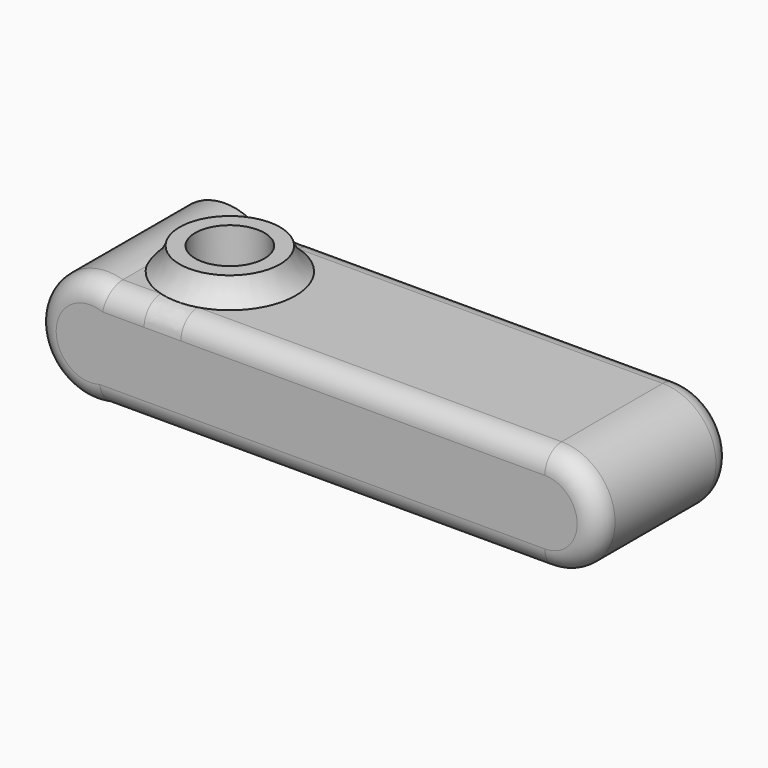
from build123d import *

# Parameters (mm, degrees)
F1_DEPTH  = 12.7
F5_R      = 3.302
F4_FACE_R = 5.2264022723
F6_DEPTH  = 6.35
F7_DEPTH  = 6.35
F8_DEPTH  = 6.35
F9_R      = 2.8667617308
F10_DEPTH = 6.35
F11_R     = 3.175


with BuildPart() as f1:
    # F0 (on Front) → F1 (new body, symmetric)
    with BuildSketch(Plane.XZ):
        with BuildLine():
            Line((27.0537398756, 6.9073382765), (-39.1415841877, 6.9073382765))
            ThreePointArc((-39.1415841877, 6.9073382765), (-49.8380616626, -0.7794862001), (-39.7171936929, -9.2097846791))
            Line((-39.7171936929, -9.2097846791), (27.0537398756, -9.2097846791))
            ThreePointArc((27.0537398756, -9.2097846791), (35.1123013534, -1.1512232013), (27.0537398756, 6.9073382765))
        make_face()
    extrude(amount=F1_DEPTH, both=True)

    # F3 (on Front) → F4 (revolve)
    with BuildSketch(Plane.XZ):
        with BuildLine():
            ThreePointArc((-19.0515599295, 6.0564640567), (-21.5885566512, 7.6841524566), (-23.0529304126, 10.3187931113))
            Line((-23.0529304126, 10.3187931113), (-25.4015599295, 10.3187931113))
            Line((-25.4015599295, 10.3187931113), (-25.4015599295, 6.0564640567))
            Line((-25.4015599295, 6.0564640567), (-19.0515599295, 6.0564640567))
        make_face()
    revolve(axis=Axis((-30.6279622018, 0, 0.5539879203), (0, 0, -1)))

    # F5 (on Top) + F4_face (on face) → F6 (cut)
    with BuildSketch(Plane.XY):
        with Locations((-31.2027800828, 0)):
            Circle(F5_R)
    with BuildSketch(Plane(origin=(-30.6279622018, 0, 6.9073382765), x_dir=(1, 0, 0), z_dir=(0, 0, 1))):
        Circle(F4_FACE_R)
    extrude(amount=-F6_DEPTH, mode=Mode.SUBTRACT)

    # F5 (on Top) → F7 (cut)
    with BuildSketch(Plane.XY):
        with Locations((-31.2027800828, 0)):
            Circle(F5_R)
    extrude(amount=-F7_DEPTH, mode=Mode.SUBTRACT)

    # F5 (on Top) → F8 (cut)
    with BuildSketch(Plane.XY):
        with Locations((-31.2027800828, 0)):
            Circle(F5_R)
    extrude(amount=-F8_DEPTH, mode=Mode.SUBTRACT)

    # F9 (on face) → F10 (cut)
    with BuildSketch(Plane.XY.offset(0.5573382765)):
        with Locations((-30.1966872066, 0)):
            Circle(F9_R)
    extrude(amount=-F10_DEPTH, mode=Mode.SUBTRACT)

    # F11
    f11_edges = [f1.edges().sort_by_distance(p)[0] for p in [
        (-6.043922, -12.7, 6.907338),
        (-6.043922, 12.7, 6.907338),
        (-49.838062, -12.7, -0.779486),
    ]]
    fillet(f11_edges, radius=F11_R)


solid = f1.part
